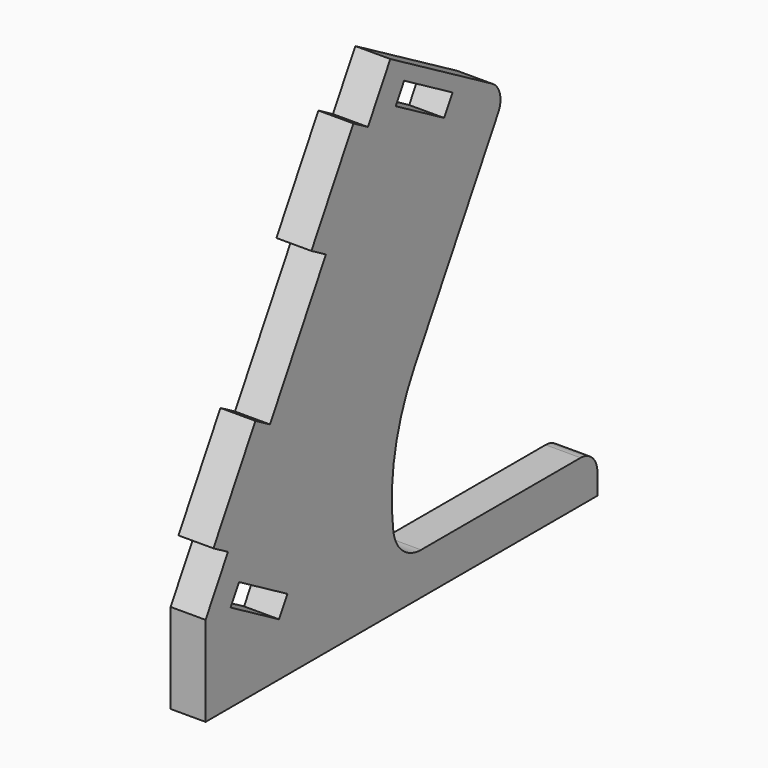
from build123d import *

# Parameters (mm, degrees)
F1_DEPTH = 5


with BuildPart() as f1:
    # F0 (on Right) → F1 (new body)
    with BuildSketch(Plane.YZ):
        with BuildLine():
            Line((4, 19.770527), (0, 12.842323))
            Line((0, 12.842323), (0, 0))
            Line((0, 0), (70, 0))
            Line((70, 0), (70, 3))
            ThreePointArc((70, 3), (69.12132, 5.12132), (67, 6))
            Line((67, 6), (38.500565, 6))
            ThreePointArc((38.500565, 6), (35.21584, 7.230308), (33.547604, 10.315768))
            ThreePointArc((33.547604, 10.315768), (33.8233, 20.180017), (37.28461, 29.421162))
            Line((37.28461, 29.421162), (52.28461, 55.401924))
            ThreePointArc((52.28461, 55.401924), (52.584311, 57.678381), (51.186533, 59.5))
            Line((51.186533, 59.5), (33, 70))
            Line((33, 70), (29, 63.071797))
            Line((29, 63.071797), (26.401924, 64.571797))
            Line((26.401924, 64.571797), (18.901924, 51.581416))
            Line((18.901924, 51.581416), (21.5, 50.081416))
            Line((21.5, 50.081416), (11.5, 32.760908))
            Line((11.5, 32.760908), (8.901924, 34.260908))
            Line((8.901924, 34.260908), (1.401924, 21.270527))
            Line((1.401924, 21.270527), (4, 19.770527))
        make_face()
        Polygon((4.464102, 12.574374), (5.964102, 15.17245), (14.624356, 10.17245), (13.124356, 7.574374), align=None, mode=Mode.SUBTRACT)
        Polygon((33.964102, 63.669873), (35.464102, 66.267949), (44.124356, 61.267949), (42.624356, 58.669873), align=None, mode=Mode.SUBTRACT)
    extrude(amount=F1_DEPTH)


solid = f1.part
